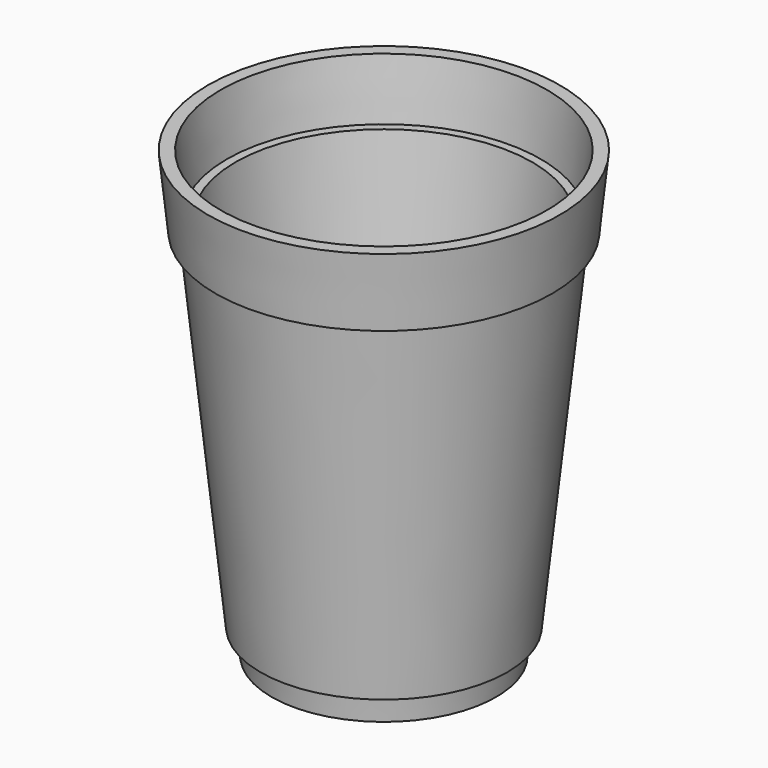
from build123d import *

# Parameters (mm, degrees)
THICKNESS_T = -3


with BuildPart() as part:
    # Sketch → Revolution (revolve)
    with BuildSketch(Plane.XZ):
        Polygon((0, 0), (-26.5, 0), (-27.091608, 5.970762), (-29.091608, 5.970762), (-37.723016, 88.093128), (-39.723016, 88.093128), (-41.5, 105), (0, 105), align=None)
    revolve(axis=Axis((0, 0, 0), (0, 0, 1)))

    # Thickness
    thickness_openings = [part.faces().sort_by_distance(p)[0] for p in [
        (0, 0, 105),
    ]]
    offset(amount=THICKNESS_T, openings=thickness_openings, kind=Kind.INTERSECTION)


solid = part.part
